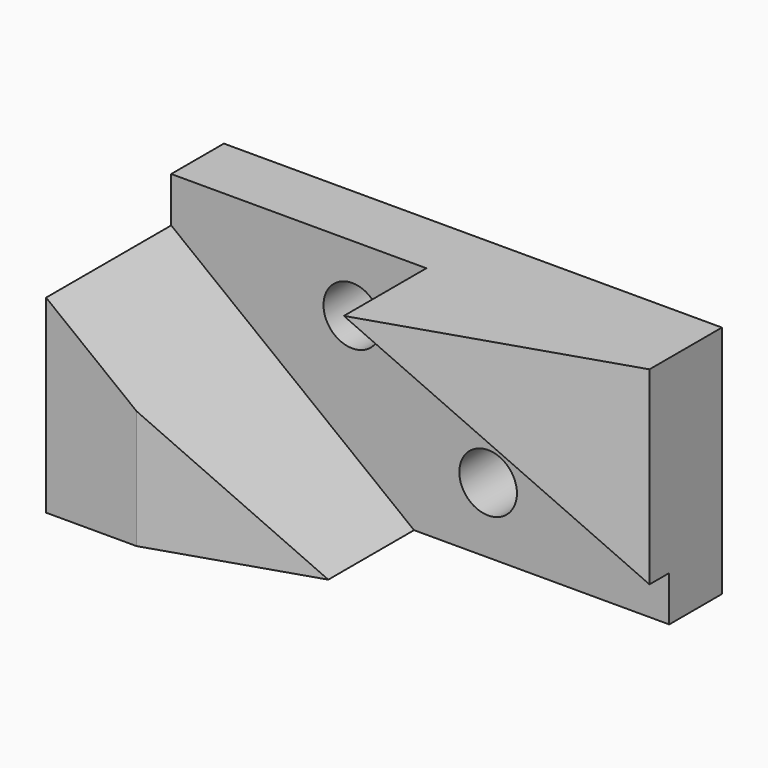
from build123d import *

# Parameters (mm, degrees)
F1_DEPTH = 16
F2_DEPTH = 38
F3_R     = 7
F4_DEPTH = 25
F6_DEPTH = 57


with BuildPart() as f1:
    # F0 (on Front) → F1 (new body)
    with BuildSketch(Plane.XZ):
        Polygon((0, 46), (0, 0), (22, 0), (22, 28.8474576271), align=None)
        Polygon((22, 28.8474576271), (22, 0), (59, 0), align=None)
        Polygon((0, 57), (0, 46), (22, 28.8474576271), (59, 0), (121, 0), (121, 11), (62, 57), align=None)
        Polygon((121, 57), (62, 57), (121, 11), align=None)
    extrude(amount=-F1_DEPTH)

    # F0 (on Front) → F2 (join)
    with BuildSketch(Plane.XZ):
        Polygon((121, 57), (62, 57), (121, 11), align=None)
        Polygon((22, 28.8474576271), (22, 0), (59, 0), align=None)
        Polygon((0, 46), (0, 0), (22, 0), (22, 28.8474576271), align=None)
    extrude(amount=F2_DEPTH)

    # F3 (on face) → F4 (cut)
    with BuildSketch(Plane.XZ):
        with Locations((77, 16)):
            Circle(F3_R)
        with Locations((44, 41)):
            Circle(F3_R)
    extrude(amount=-F4_DEPTH, mode=Mode.SUBTRACT)

    # F5 (on face) → F6 (cut)
    with BuildSketch(Plane.XY.offset(57)):
        Polygon((121, -38), (121, -6), (62, -25.0707070707), (62, -38), align=None)
        Polygon((62, -38), (62, -25.0707070707), (22, -38), align=None)
    extrude(amount=-F6_DEPTH, mode=Mode.SUBTRACT)


solid = f1.part
